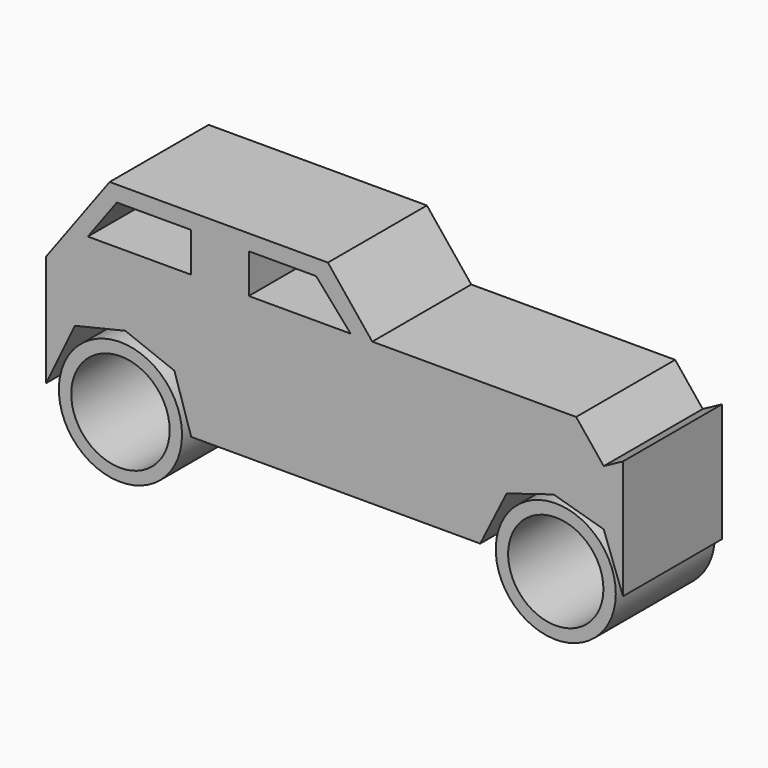
from build123d import *

# Parameters (mm, degrees)
F2_DEPTH = 25.4
F0_R     = 12.6420058039
F0_R_2   = 12.3190749573
F3_T     = -2.54
F3_2_T   = -2.54


with BuildPart() as f2:
    # F0 (on Front) → F2 (new body)
    with BuildSketch(Plane.XZ):
        Polygon((-34.2196635902, 20.1871376485), (-30.7730771601, 9.3550160527), (28.5574160516, 9.3550160527), (33.9734777808, 20.1871376485), (43.6286481416, 23.1469707184), (53.9144314826, 20.1871376485), (57.8533858061, 9.3550160527), (57.8533858061, 33.7272919714), (53.9144314826, 31.6114353609), (48.252183944, 38.6509858072), (6.4008003101, 38.6509858072), (-2.7080303989, 49.975477159), (-47.5136302412, 49.975477159), (-60.5614185333, 32.2501845658), (-60.5614185333, 9.3550160527), (-54.6529851854, 21.6642469168), (-44.3132296205, 24.1260938346), align=None)
        Polygon((-30.7730771601, 46.7461037775), (-30.7730771601, 38.6509858072), (-51.9954307024, 38.6509858072), (-46.0365228355, 46.7461037775), align=None, mode=Mode.SUBTRACT)
        Polygon((-5.1341748284, 46.7461037775), (1.9694773946, 38.6509858072), (-18.9562160522, 38.6509858072), (-18.9562160522, 46.7461037775), align=None, mode=Mode.SUBTRACT)
    extrude(amount=F2_DEPTH)


with BuildPart() as f2b:
    # F0 (on Front) → F2, piece 2 (new body)
    with BuildSketch(Plane.XZ):
        with Locations((-45.2979691327, 9.1088311747)):
            Circle(F0_R)
    extrude(amount=F2_DEPTH)

    # F3
    f3_openings = [f2b.faces().sort_by_distance(p)[0] for p in [
        (-45.297969, -25.4, 9.108831),
    ]]
    offset(amount=F3_T, openings=f3_openings)


with BuildPart() as f2c:
    # F0 (on Front) → F2, piece 3 (new body)
    with BuildSketch(Plane.XZ):
        with Locations((44.0670438111, 9.3550160527)):
            Circle(F0_R_2)
    extrude(amount=F2_DEPTH)

    # F3#2
    f3_2_openings = [f2c.faces().sort_by_distance(p)[0] for p in [
        (44.067044, -25.4, 9.355016),
    ]]
    offset(amount=F3_2_T, openings=f3_2_openings)


solid = Compound([f2.part, f2b.part, f2c.part])
